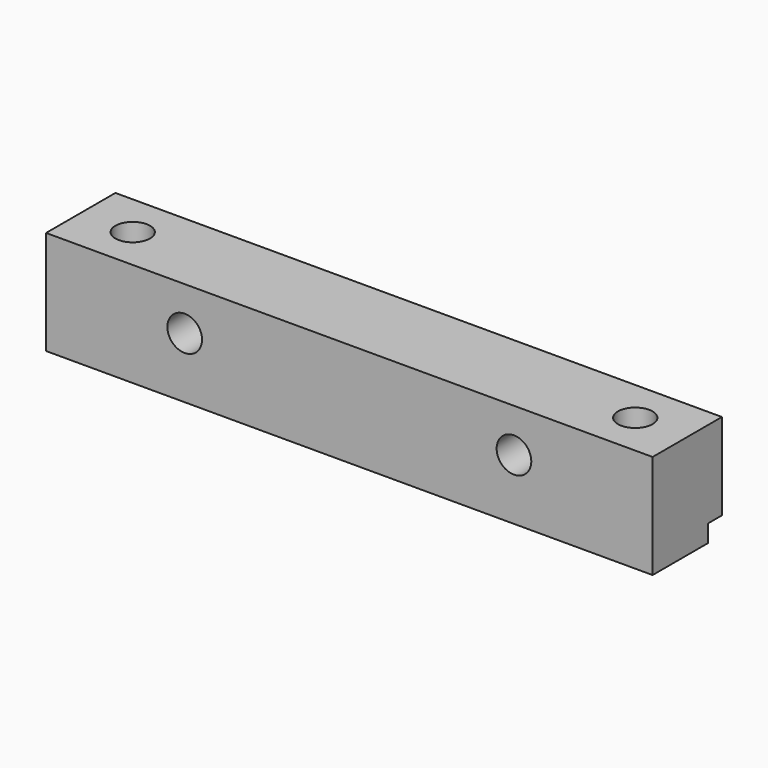
from build123d import *

# Parameters (mm, degrees)
F0_W     = 70
F0_H     = 10
F0_R     = 2
F1_DEPTH = 12
F2_W     = 70
F2_H     = 2
F3_DEPTH = 2
F4_R     = 2
F5_DEPTH = 25


with BuildPart() as f1:
    # F0 (on Top) → F1 (new body)
    with BuildSketch(Plane.XY):
        with Locations((35, -5)):
            Rectangle(F0_W, F0_H)
        with Locations((6, -5)):
            Circle(F0_R, mode=Mode.SUBTRACT)
        with Locations((64, -5)):
            Circle(F0_R, mode=Mode.SUBTRACT)
    extrude(amount=F1_DEPTH)

    # F2 (on Top) → F3 (cut)
    with BuildSketch(Plane.XY):
        with Locations((35, -1)):
            Rectangle(F2_W, F2_H)
    extrude(amount=F3_DEPTH, mode=Mode.SUBTRACT)

    # F4 (on face) → F5 (cut)
    with BuildSketch(Plane.XZ.offset(10)):
        with Locations((16, 7)):
            Circle(F4_R)
        with Locations((54, 7)):
            Circle(F4_R)
    extrude(amount=-F5_DEPTH, mode=Mode.SUBTRACT)


solid = f1.part
